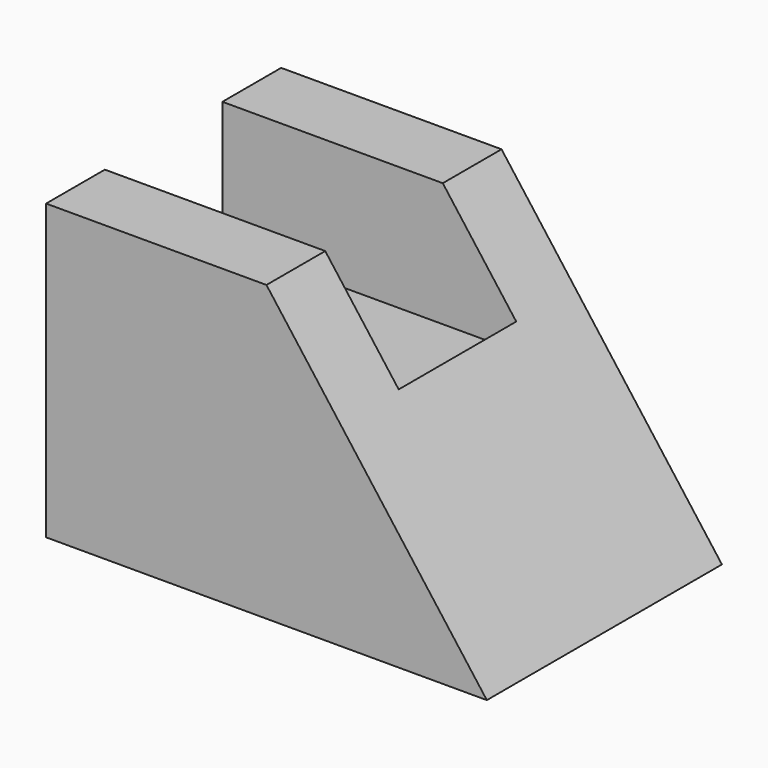
from build123d import *

# Parameters (mm, degrees)
F2_DEPTH = 25.4
F1_W     = 12.7
F1_H     = 10.732394
F3_DEPTH = 25.4


with BuildPart() as f2:
    # F0 (on Front) → F2 (new body)
    with BuildSketch(Plane.XZ):
        Polygon((0, 25.4), (0, 0), (38.1, 0), (19.05, 25.4), align=None)
    extrude(amount=-F2_DEPTH)

    # F1 (on Right) → F3 (cut)
    with BuildSketch(Plane.YZ):
        with Locations((12.7, 20.033803)):
            Rectangle(F1_W, F1_H)
    extrude(amount=F3_DEPTH, mode=Mode.SUBTRACT)


solid = f2.part
